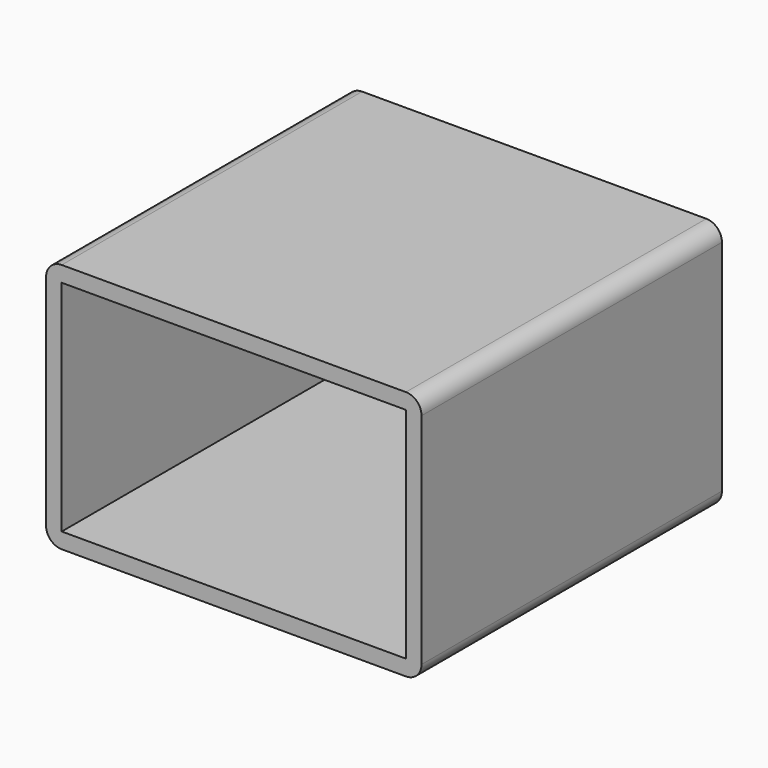
from build123d import *

# Parameters (mm, degrees)
F0_W     = 139.7
F0_H     = 88.9
F1_DEPTH = 76.2


with BuildPart() as f1:
    # F0 (on Front) → F1 (new body, symmetric)
    with BuildSketch(Plane.XZ):
        with BuildLine():
            Line((69.85, 50.8), (-69.85, 50.8))
            ThreePointArc((-69.85, 50.8), (-74.340128, 48.940128), (-76.2, 44.45))
            Line((-76.2, 44.45), (-76.2, -44.45))
            ThreePointArc((-76.2, -44.45), (-74.340128, -48.940128), (-69.85, -50.8))
            Line((-69.85, -50.8), (69.85, -50.8))
            ThreePointArc((69.85, -50.8), (74.340128, -48.940128), (76.2, -44.45))
            Line((76.2, -44.45), (76.2, 44.45))
            ThreePointArc((76.2, 44.45), (74.340128, 48.940128), (69.85, 50.8))
        make_face()
        Rectangle(F0_W, F0_H, mode=Mode.SUBTRACT)
    extrude(amount=F1_DEPTH, both=True)


solid = f1.part
